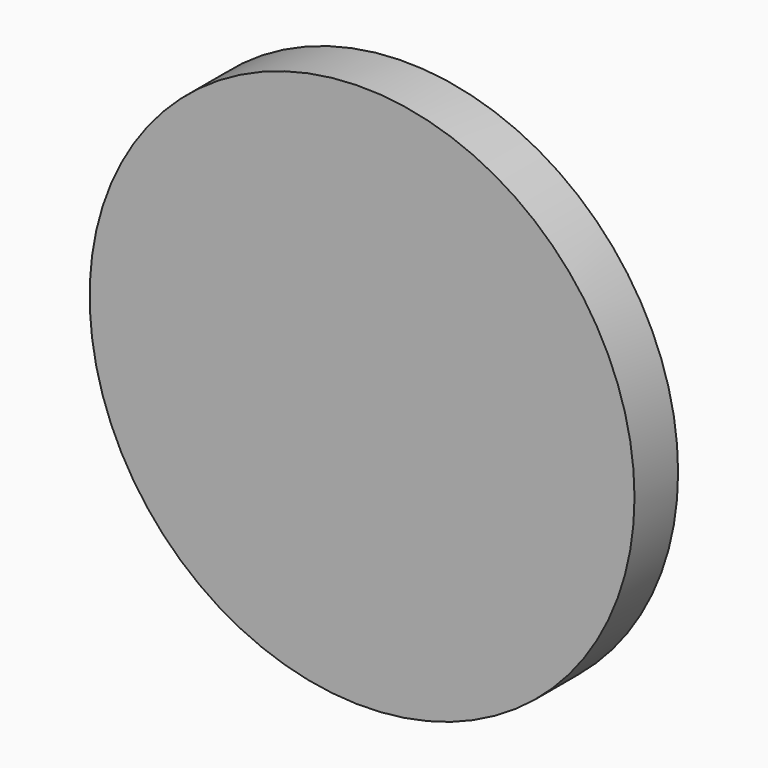
from build123d import *

# Parameters (mm, degrees)
F0_R     = 25
F1_DEPTH = 7.5
F2_R     = 37.743682
F2_R_2   = 17
F3_DEPTH = 2.5


with BuildPart() as f1:
    # F0 (on Front) → F1 (new body)
    with BuildSketch(Plane.XZ):
        Circle(F0_R)
    extrude(amount=-F1_DEPTH)

    # F2 (on face) → F3 (cut)
    with BuildSketch(Plane(origin=(0, 7.5, 0), x_dir=(-1, 0, 0), z_dir=(0, 1, 0))):
        Circle(F2_R)
        Circle(F2_R_2, mode=Mode.SUBTRACT)
    extrude(amount=-F3_DEPTH, mode=Mode.SUBTRACT)


solid = f1.part
